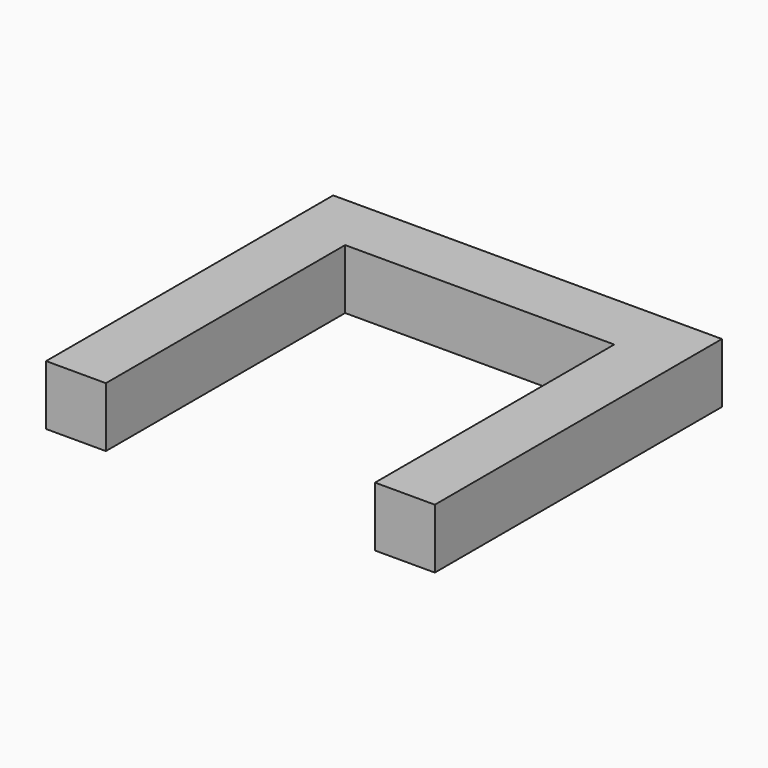
from build123d import *

# Parameters (mm, degrees)
F0_W     = 165.1
F0_H     = 25.4
F1_DEPTH = 25.4
F2_W     = 25.4
F2_H     = 25.4
F3_DEPTH = 127


with BuildPart() as f1:
    # F0 (on Front) → F1 (new body)
    with BuildSketch(Plane.XZ):
        Rectangle(F0_W, F0_H)
    extrude(amount=F1_DEPTH)

    # F2 (on face) → F3 (join)
    with BuildSketch(Plane.XZ.offset(25.4)):
        with Locations((-69.85, 0)):
            Rectangle(F2_W, F2_H)
        with Locations((69.85, 0)):
            Rectangle(F2_W, F2_H)
    extrude(amount=F3_DEPTH)


solid = f1.part
